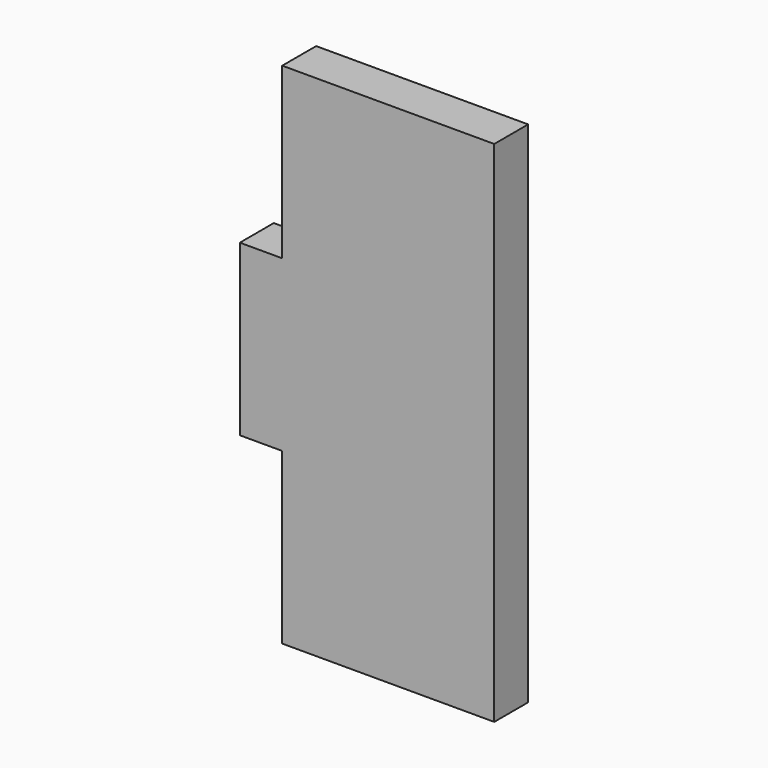
from build123d import *

# Parameters (mm, degrees)
F0_W     = 3.175
F0_H     = 12.7
F1_DEPTH = 3.175


with BuildPart() as f1:
    # F0 (on Front) → F1 (new body)
    with BuildSketch(Plane.XZ):
        with Locations((-7.9375, 0)):
            Rectangle(F0_W, F0_H)
        Polygon((9.525, -19.05), (9.525, 19.05), (-6.35, 19.05), (-6.35, 6.35), (-6.35, -6.35), (-6.35, -19.05), align=None)
    extrude(amount=F1_DEPTH)


solid = f1.part
